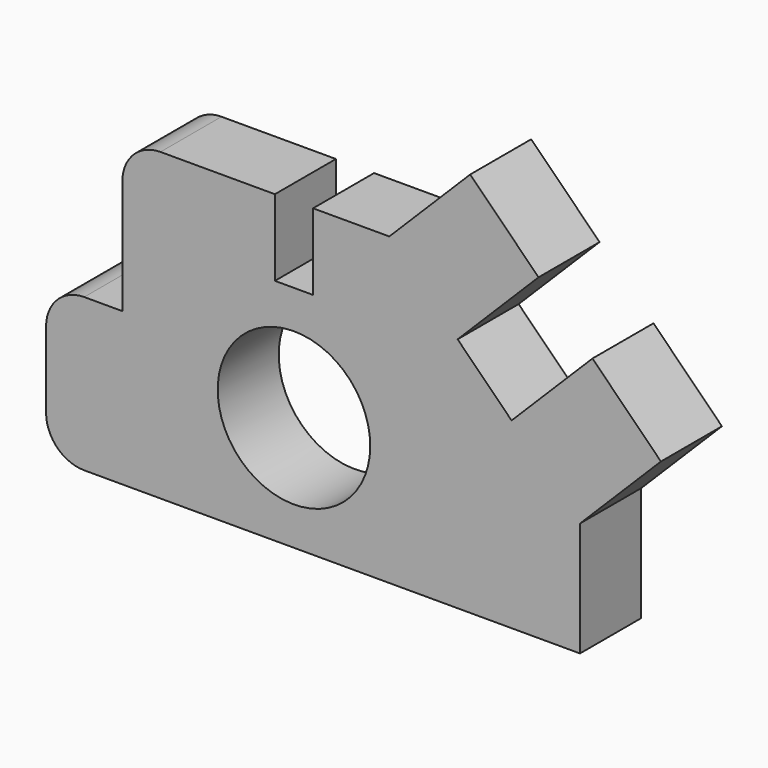
from build123d import *

# Parameters (mm, degrees)
F0_R     = 254
F1_DEPTH = 254


with BuildPart() as f1:
    # F0 (on Front) → F1 (new body)
    with BuildSketch(Plane.XZ):
        with BuildLine():
            Line((0, 381), (0, 127))
            ThreePointArc((0, 127), (37.197439, 37.197439), (127, 0))
            Line((127, 0), (1778, 0))
            Line((1778, 0), (1778, 381))
            Line((1778, 381), (2047.407684, 650.407684))
            Line((2047.407684, 650.407684), (1819.527595, 878.287772))
            Line((1819.527595, 878.287772), (1550.119911, 608.880089))
            Line((1550.119911, 608.880089), (1370.514789, 788.485211))
            Line((1370.514789, 788.485211), (1639.922472, 1057.892895))
            Line((1639.922472, 1057.892895), (1412.407684, 1285.407684))
            Line((1412.407684, 1285.407684), (1143, 1016))
            Line((1143, 1016), (889, 1016))
            Line((889, 1016), (889, 762))
            Line((889, 762), (762, 762))
            Line((762, 762), (762, 1016))
            Line((762, 1016), (381, 1016))
            ThreePointArc((381, 1016), (291.197439, 978.802561), (254, 889))
            Line((254, 889), (254, 508))
            Line((254, 508), (127, 508))
            ThreePointArc((127, 508), (37.197439, 470.802561), (0, 381))
        make_face()
        with Locations((825.5, 381)):
            Circle(F0_R, mode=Mode.SUBTRACT)
    extrude(amount=F1_DEPTH)


solid = f1.part
